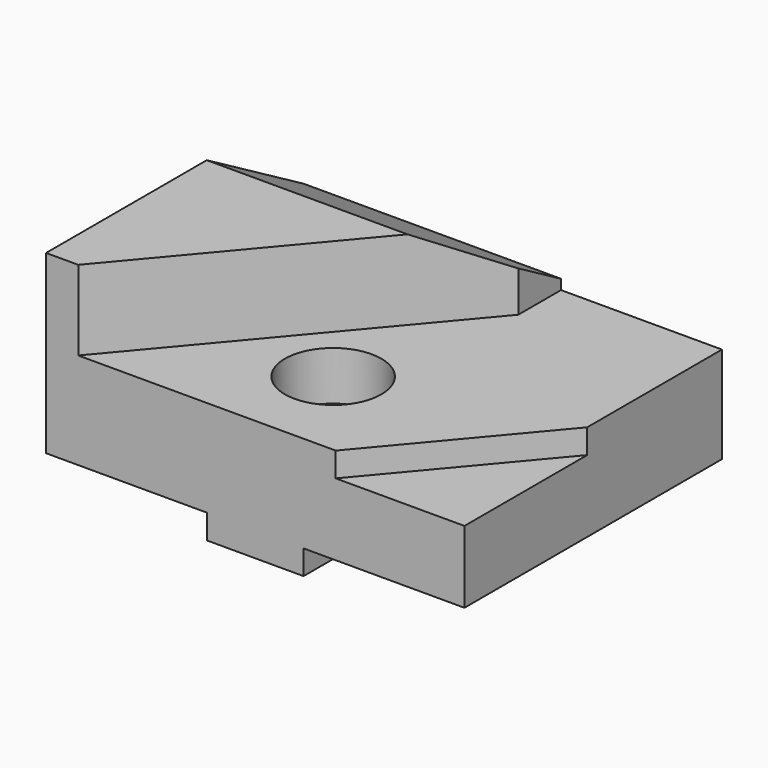
from build123d import *

# Parameters (mm, degrees)
F1_DEPTH       = 63.5
F3_DEPTH       = 15.748
F5_DEPTH       = 4.826
F7_DEPTH       = 55.118
F9_D           = 12.7
F9_CBORE_D     = 19.05
F9_CBORE_DEPTH = 9.652


with BuildPart() as f1:
    # F0 (on Front) → F1 (new body)
    with BuildSketch(Plane.XZ):
        Polygon((-3.422344, 11.084872), (-3.422344, 26.832872), (-54.222344, 26.832872), (-54.222344, -7.965128), (-22.472344, -7.965128), (-22.472344, -12.791128), (-3.422344, -12.791128), (-3.422344, -7.965128), (28.327656, -7.965128), (28.327656, 11.084872), align=None)
    extrude(amount=F1_DEPTH)

    # F2 (on face) → F3 (cut)
    with BuildSketch(Plane.XY.offset(26.832872)):
        Polygon((-3.422344, -10.526553), (-47.872344, -63.5), (-3.422344, -63.5), align=None)
    extrude(amount=-F3_DEPTH, mode=Mode.SUBTRACT)

    # F4 (on face) → F5 (cut)
    with BuildSketch(Plane.XY.offset(11.084872)):
        Polygon((2.927656, -63.5), (28.327656, -63.5), (28.327656, -33.229459), align=None)
    extrude(amount=-F5_DEPTH, mode=Mode.SUBTRACT)

    # F6 (on face) → F7 (cut)
    with BuildSketch(Plane.YZ.offset(-3.422344)):
        Polygon((0, 13.048057), (0, 26.832872), (-23.876, 26.832872), align=None)
    extrude(amount=-F7_DEPTH, mode=Mode.SUBTRACT)

    # F9 (through all)
    with Locations(Plane.XY.offset(11.084872)):
        with Locations((-12.820344, -44.45)):
            CounterBoreHole(F9_D / 2, F9_CBORE_D / 2, F9_CBORE_DEPTH)


solid = f1.part
